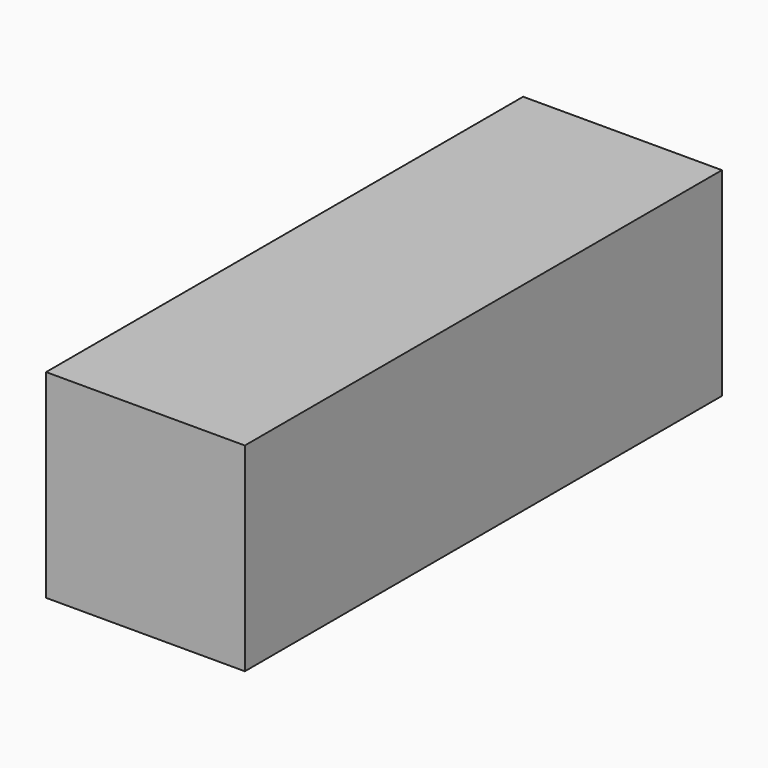
from build123d import *

# Parameters (mm, degrees)
F0_W     = 1000
F0_H     = 1000
F1_DEPTH = 1500
F2_T     = -3.175


with BuildPart() as f1:
    # F0 (on Front) → F1 (new body)
    with BuildSketch(Plane.XZ):
        with Locations((500, 500)):
            Rectangle(F0_W, F0_H)
    extrude(amount=F1_DEPTH)

    # F2
    f2_openings = [f1.faces().sort_by_distance(p)[0] for p in [
        (500, -1500, 500),
    ]]
    offset(amount=F2_T, openings=f2_openings)

    # F4: F1 across plane


with BuildPart() as f1_1:
    add(f1.part)
    add(f1.part.mirror(Plane.XZ.offset(1500)))


solid = f1_1.part
